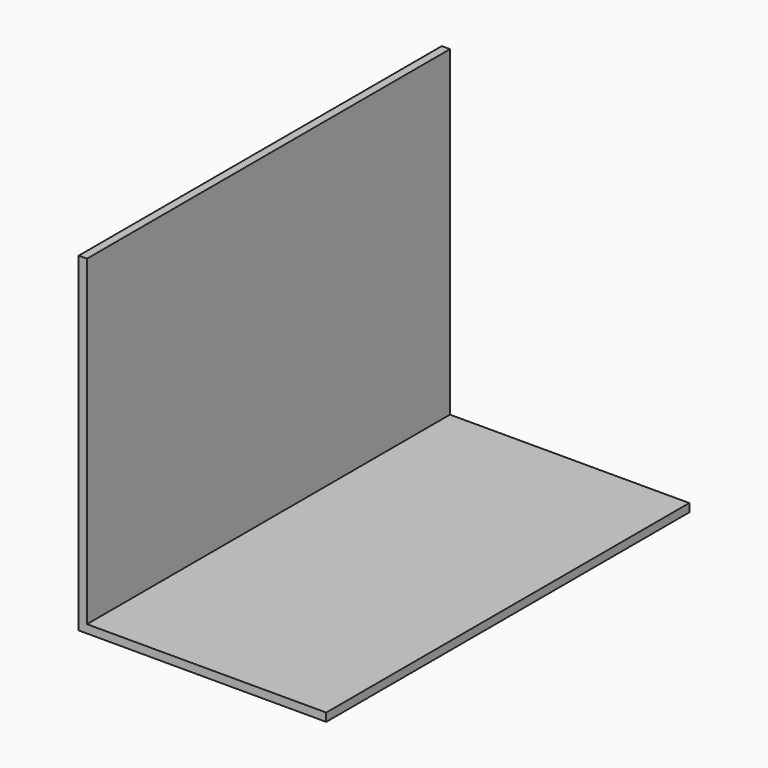
from build123d import *

# Parameters (mm, degrees)
F1_DEPTH      = 34.925
F1_DEPTH_BACK = 34.925


with BuildPart() as f1:
    # F0 (on Front) → F1 (new body, two sides)
    with BuildSketch(Plane.XZ) as f1_sk:
        Polygon((0, 50.8), (0, 0), (38.1, 0), (38.1, 1.27), (1.27, 1.27), (1.27, 50.8), align=None)
    extrude(amount=F1_DEPTH)
    extrude(f1_sk.sketch, amount=-F1_DEPTH_BACK)


solid = f1.part
